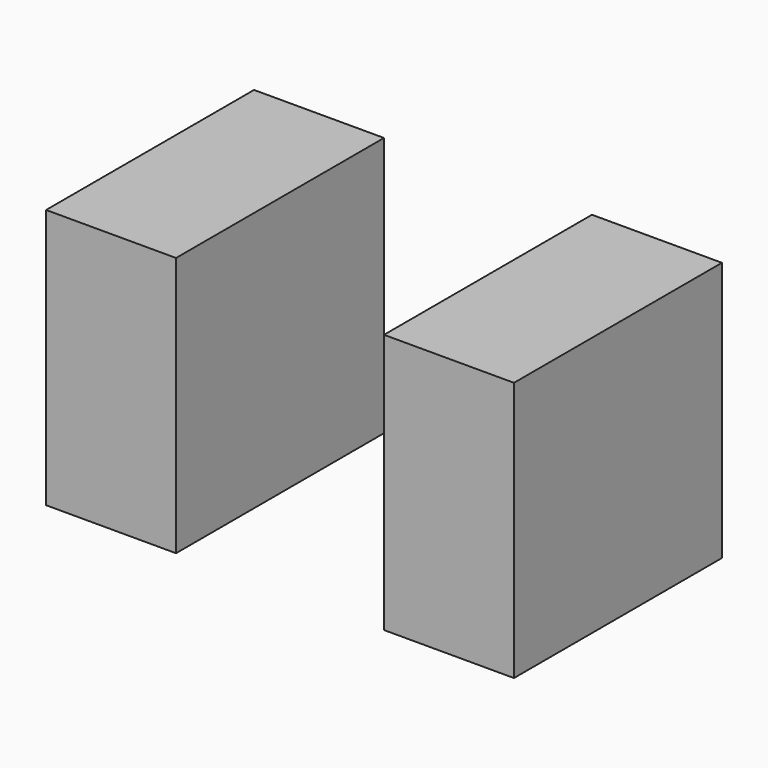
from build123d import *

# Parameters (mm, degrees)
BOX015_W     = 5
BOX015_H     = 10
BOX015_DEPTH = 10
BOX014_W     = 5
BOX014_H     = 10
BOX014_DEPTH = 10


with BuildPart() as cube015:
    # Box015 → Box015 (new body)
    with BuildSketch(Plane(origin=(13, 16, 0), x_dir=(1, 0, 0), z_dir=(0, 0, 1))):
        with Locations((2.5, 5)):
            Rectangle(BOX015_W, BOX015_H)
    extrude(amount=BOX015_DEPTH)


with BuildPart() as fusion009:
    # Box014 → Box014 (new body)
    with BuildSketch(Plane(origin=(0, 16, 0), x_dir=(1, 0, 0), z_dir=(0, 0, 1))):
        with Locations((2.5, 5)):
            Rectangle(BOX014_W, BOX014_H)
    extrude(amount=BOX014_DEPTH)

    # Fusion009: union Cube015
    add(cube015.part)


solid = fusion009.part
